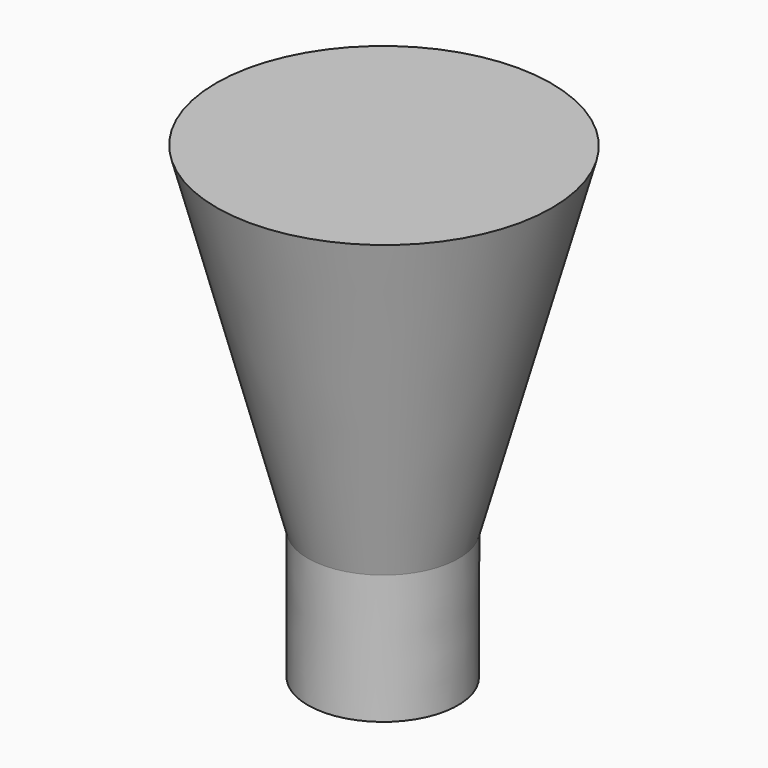
from build123d import *


with BuildPart() as f1:
    # F0 (on Front) → F1 (revolve)
    with BuildSketch(Plane.XZ):
        Polygon((-24.7232485802, 32.6910620555), (-11.2546126235, -17.3089379445), (-0.1333396203, -17.3089379445), (0, 32.6910620555), align=None)
        Polygon((-0.1333396203, -17.3089379445), (-11.2546126235, -17.3089379445), (-11.2546126235, -36.3809205592), (-0.1845019444, -36.4939048886), align=None)
    revolve(axis=Axis((-0.0922509722, 0, -1.9014214166), (-0.0026667829, 0, -0.9999964441)))


solid = f1.part
